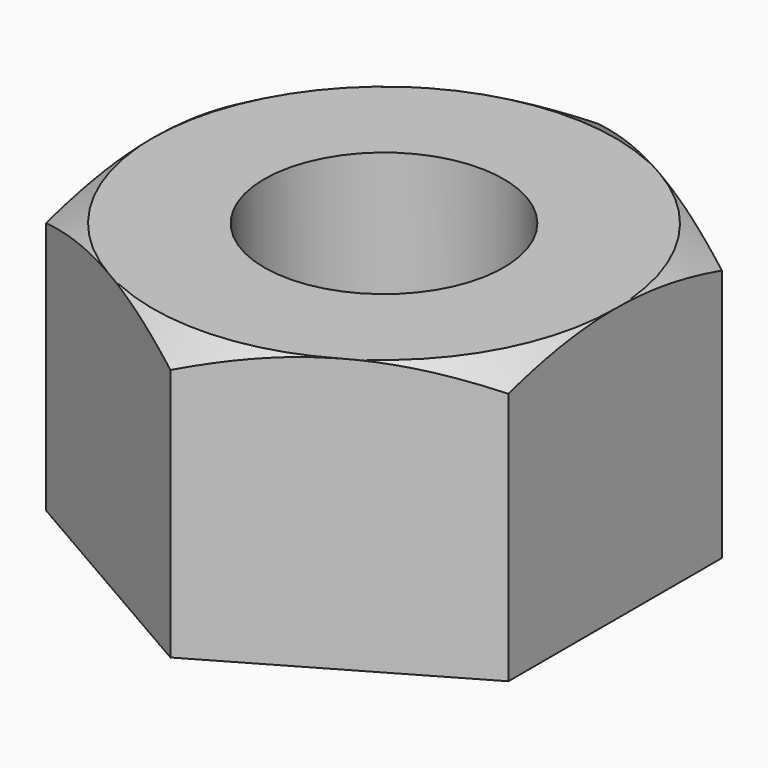
from build123d import *

# Parameters (mm, degrees)
F1_DEPTH = 16
F4_D     = 14


with BuildPart() as f1:
    # F0 (on Top) → F1 (new body)
    with BuildSketch(Plane.XY):
        Polygon((13.509996299, -7.8), (13.509996299, 7.8), (0, 15.6), (-13.509996299, 7.8), (-13.509996299, -7.8), (0, -15.6), align=None)
    extrude(amount=-F1_DEPTH)

    # F2 (on Front) → F3 (revolve, cut)
    with BuildSketch(Plane.XZ):
        Polygon((16, -1.4376021703), (16, 0), (13.51, 0), align=None)
    revolve(axis=Axis((0, 0, -8), (0, 0, -1)), mode=Mode.SUBTRACT)

    # F4 (through all)
    with Locations(Plane.XY):
        with Locations((0, 0)):
            Hole(F4_D / 2)


solid = f1.part
